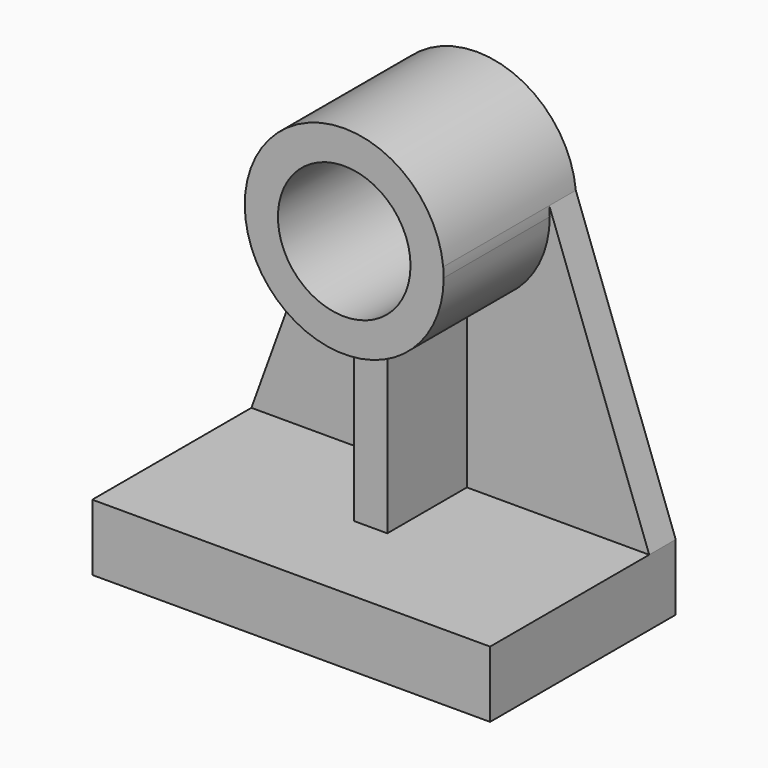
from build123d import *

# Parameters (mm, degrees)
F0_R     = 50.8
F1_DEPTH = 127
F2_DEPTH = 101.6
F3_DEPTH = 25.4
F4_DEPTH = 25.4
F5_W     = 304.8
F5_H     = 50.8
F6_DEPTH = 152.4


with BuildPart() as f1:
    # F0 (on Front) → F1 (new body)
    with BuildSketch(Plane.XZ):
        with BuildLine():
            ThreePointArc((12.7, -75.134213), (58.198711, -49.186888), (76.2, 0))
            ThreePointArc((76.2, 0), (76.110414, 3.693893), (75.841868, 7.3791))
            ThreePointArc((75.841868, 7.3791), (0.194506, 76.199752), (-75.803208, 7.766186))
            ThreePointArc((-75.803208, 7.766186), (-60.632693, -46.153185), (-12.7, -75.134213))
            ThreePointArc((-12.7, -75.134213), (0, -76.2), (12.7, -75.134213))
        make_face()
        Circle(F0_R, mode=Mode.SUBTRACT)
    extrude(amount=F1_DEPTH)

    # F0 (on Front) → F2 (join)
    with BuildSketch(Plane.XZ):
        with BuildLine():
            Line((12.7, -203.2), (12.7, -75.134213))
            ThreePointArc((12.7, -75.134213), (0, -76.2), (-12.7, -75.134213))
            Line((-12.7, -75.134213), (-12.7, -203.2))
            Line((-12.7, -203.2), (12.7, -203.2))
        make_face()
    extrude(amount=F2_DEPTH)

    # F0 (on Front) → F3 (join)
    with BuildSketch(Plane.XZ):
        with BuildLine():
            ThreePointArc((-12.7, -75.134213), (-60.632693, -46.153185), (-75.803208, 7.766186))
            Line((-75.803208, 7.766186), (-152.4, -203.2))
            Line((-152.4, -203.2), (-12.7, -203.2))
            Line((-12.7, -203.2), (-12.7, -75.134213))
        make_face()
        with BuildLine():
            ThreePointArc((75.841868, 7.3791), (76.110414, 3.693893), (76.2, 0))
            ThreePointArc((76.2, 0), (58.198711, -49.186888), (12.7, -75.134213))
            Line((12.7, -75.134213), (12.7, -203.2))
            Line((12.7, -203.2), (152.4, -203.2))
            Line((152.4, -203.2), (75.841868, 7.3791))
        make_face()
    extrude(amount=F3_DEPTH)

    # F0 (on Front) → F4 (join)
    with BuildSketch(Plane.XZ):
        Polygon((152.4, -254), (152.4, -203.2), (12.7, -203.2), (-12.7, -203.2), (-152.4, -203.2), (-152.4, -254), align=None)
    extrude(amount=F4_DEPTH)

    # F5 (on face) → F6 (join)
    with BuildSketch(Plane.XZ.offset(25.4)):
        with Locations((0, -228.6)):
            Rectangle(F5_W, F5_H)
    extrude(amount=F6_DEPTH)


solid = f1.part
